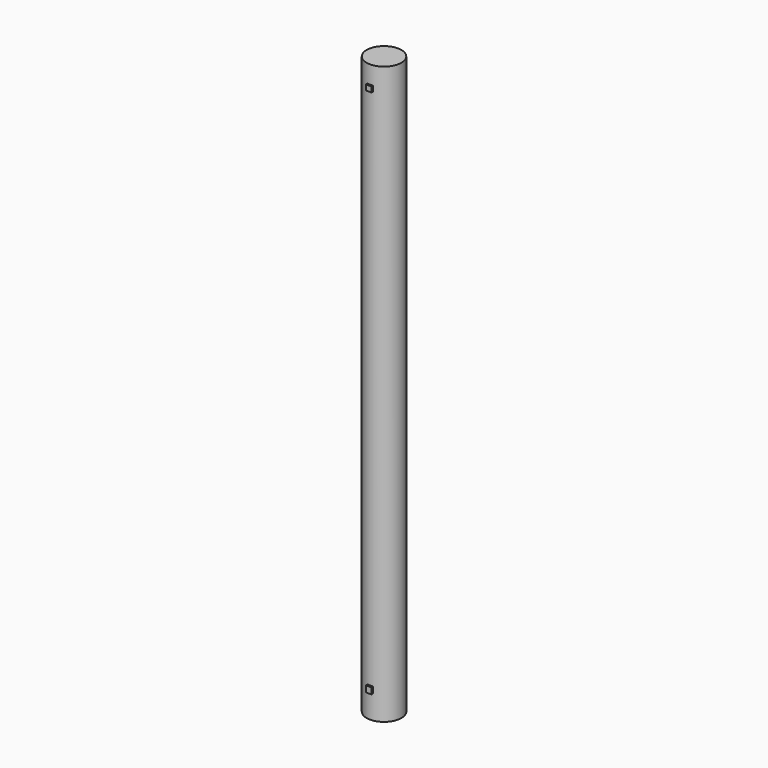
from build123d import *

# Parameters (mm, degrees)
F0_R     = 2.297315
F1_DEPTH = 76.2
F2_W     = 0.757628
F2_H     = 0.697389
F2_W_2   = 0.738942
F2_H_2   = 0.819422
F3_DEPTH = 2.54


with BuildPart() as f1:
    # F0 (on Top) → F1 (new body)
    with BuildSketch(Plane.XY):
        Circle(F0_R)
    extrude(amount=F1_DEPTH)

    # F2 (on Front) → F3 (join)
    with BuildSketch(Plane.XZ):
        with Locations((0, 73.495656)):
            Rectangle(F2_W, F2_H)
        with Locations((0, 3.56264)):
            Rectangle(F2_W_2, F2_H_2)
    extrude(amount=F3_DEPTH)


solid = f1.part
